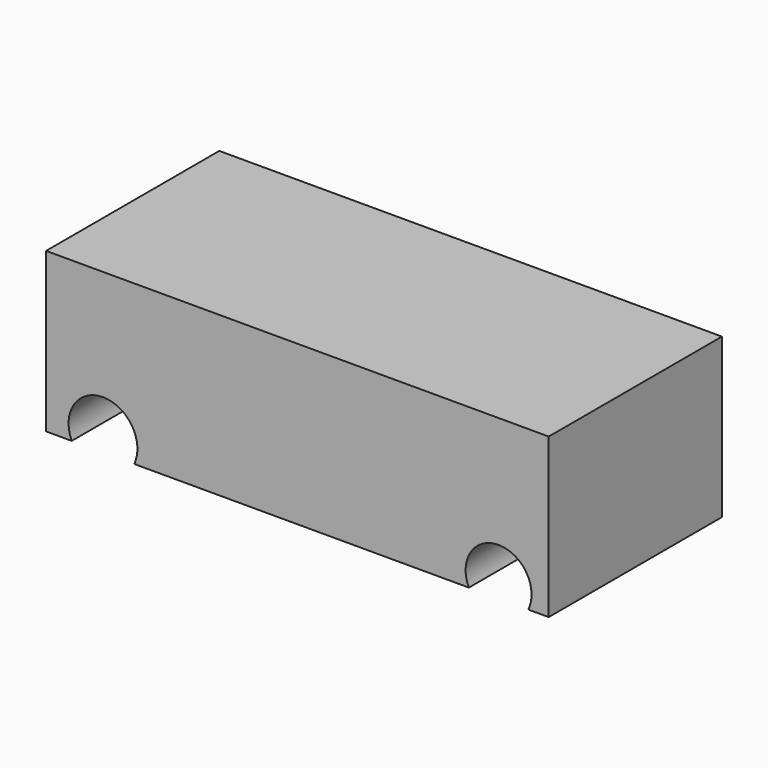
from build123d import *

# Parameters (mm, degrees)
F0_W     = 160.6296
F0_H     = 69.1896
F1_DEPTH = 50.8
F2_R     = 10.993346
F2_R_2   = 10.535593
F3_DEPTH = 127


with BuildPart() as f1:
    # F0 (on Top) → F1 (new body)
    with BuildSketch(Plane.XY):
        with Locations((-0.304803, -5.9436)):
            Rectangle(F0_W, F0_H)
    extrude(amount=F1_DEPTH)

    # F2 (on face) → F3 (cut)
    with BuildSketch(Plane.XZ.offset(40.5384)):
        with Locations((-62.431678, 4.570502)):
            Circle(F2_R)
        with Locations((63.991807, 4.570502)):
            Circle(F2_R_2)
    extrude(amount=-F3_DEPTH, mode=Mode.SUBTRACT)


solid = f1.part
